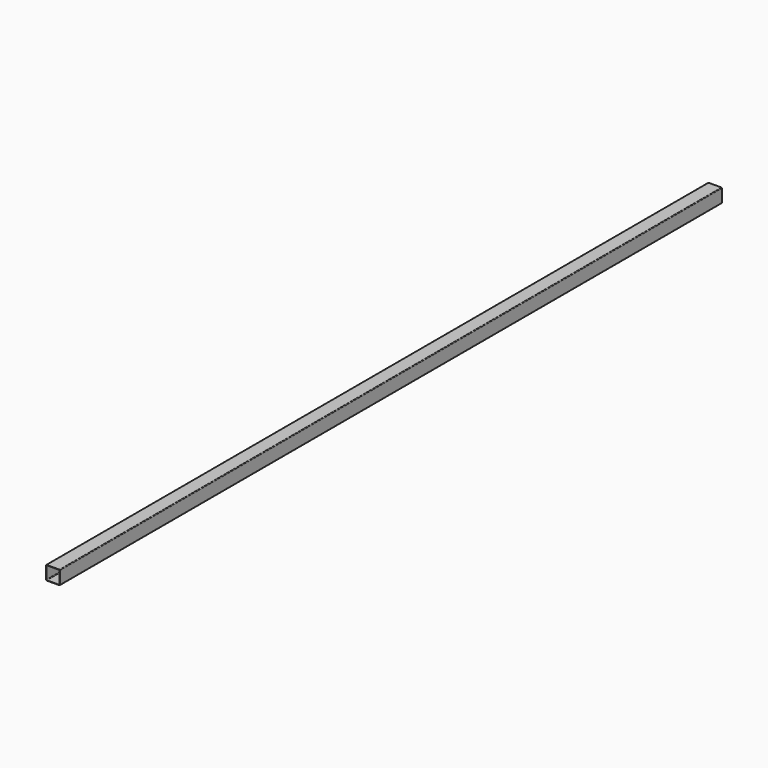
from build123d import *

# Parameters (mm, degrees)
F1_DEPTH = 1499


with BuildPart() as f1:
    # F0 (on Front) → F1 (new body, symmetric)
    with BuildSketch(Plane.XZ):
        with BuildLine():
            ThreePointArc((25, 23), (24.414214, 24.414214), (23, 25))
            Line((23, 25), (-23, 25))
            ThreePointArc((-23, 25), (-24.414214, 24.414214), (-25, 23))
            Line((-25, 23), (-25, -23))
            ThreePointArc((-25, -23), (-24.414214, -24.414214), (-23, -25))
            Line((-23, -25), (23, -25))
            ThreePointArc((23, -25), (24.414214, -24.414214), (25, -23))
            Line((25, -23), (25, 23))
        make_face()
        with BuildLine():
            Line((-21.75, 23.75), (21.75, 23.75))
            ThreePointArc((21.75, 23.75), (23.164214, 23.164214), (23.75, 21.75))
            Line((23.75, 21.75), (23.75, -21.75))
            ThreePointArc((23.75, -21.75), (23.164214, -23.164214), (21.75, -23.75))
            Line((21.75, -23.75), (-21.75, -23.75))
            ThreePointArc((-21.75, -23.75), (-23.164214, -23.164214), (-23.75, -21.75))
            Line((-23.75, -21.75), (-23.75, 21.75))
            ThreePointArc((-23.75, 21.75), (-23.164214, 23.164214), (-21.75, 23.75))
        make_face(mode=Mode.SUBTRACT)
    extrude(amount=F1_DEPTH, both=True)


solid = f1.part
